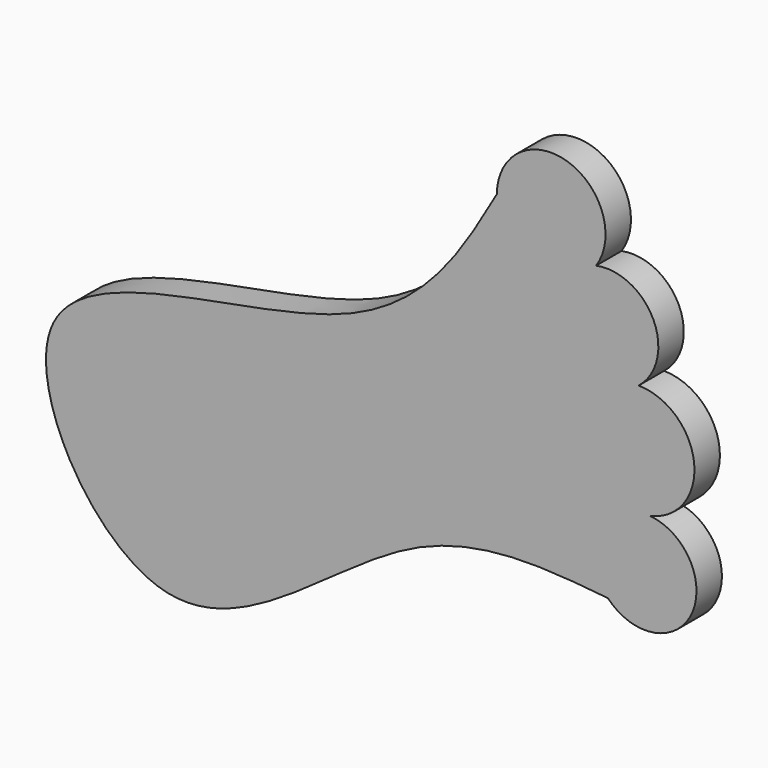
from build123d import *

# Parameters (mm, degrees)
F1_DEPTH = 5.842


with BuildPart() as f1:
    # F0 (on Front) → F1 (new body)
    with BuildSketch(Plane.XZ):
        with BuildLine():
            add(Edge.make_bspline(
                [(-67.7348971367, 58.7134361267), (-74.1978403263, 47.4183497398), (-88.4119799563, 22.5767365112), (-168.9129783895, 25.0877849363), (-128.8336311578, -45.3439265685), (-85.225776977, 3.813303837), (-59.314803617, 1.206280212), (-47.3256930709, 0)],
                knots=[0, 0, 0, 0, 0.1884579084, 0.4144809796, 0.6075629541, 0.8184178163, 1, 1, 1, 1], degree=3))
            ThreePointArc((-47.3256930709, 0), (-32.0038339811, 2.3348280317), (-39.6352671087, 15.824528411))
            ThreePointArc((-39.6352671087, 15.824528411), (-31.4808921909, 26.9474709164), (-41.688401924, 36.2221906062))
            ThreePointArc((-41.688401924, 36.2221906062), (-38.9516329467, 47.7314879783), (-49.5045467252, 53.0784348848))
            ThreePointArc((-49.5045467252, 53.0784348848), (-54.8044197353, 68.2391973732), (-67.7348971367, 58.7134361267))
        make_face()
        with BuildLine():
            ThreePointArc((-47.917265445, 34.1632328928), (-44.9710186957, 35.7015135933), (-41.688401924, 36.2221906062))
            ThreePointArc((-41.688401924, 36.2221906062), (-44.6205665857, 34.6413080583), (-47.917265445, 34.1632328928))
        make_face(mode=Mode.SUBTRACT)
        with BuildLine():
            ThreePointArc((-55.6076914072, 48.9525124431), (-52.9697935023, 51.6273889315), (-49.5045467252, 53.0784348848))
            ThreePointArc((-49.5045467252, 53.0784348848), (-52.1615907829, 50.4318797578), (-55.6076914072, 48.9525124431))
        make_face(mode=Mode.SUBTRACT)
        with BuildLine():
            ThreePointArc((-55.6076914072, 48.9525124431), (-52.1615907829, 50.4318797578), (-49.5045467252, 53.0784348848))
            ThreePointArc((-49.5045467252, 53.0784348848), (-52.9697935023, 51.6273889315), (-55.6076914072, 48.9525124431))
        make_face()
        with BuildLine():
            ThreePointArc((-47.917265445, 34.1632328928), (-44.6205665857, 34.6413080583), (-41.688401924, 36.2221906062))
            ThreePointArc((-41.688401924, 36.2221906062), (-44.9710186957, 35.7015135933), (-47.917265445, 34.1632328928))
        make_face()
    extrude(amount=F1_DEPTH)


solid = f1.part
